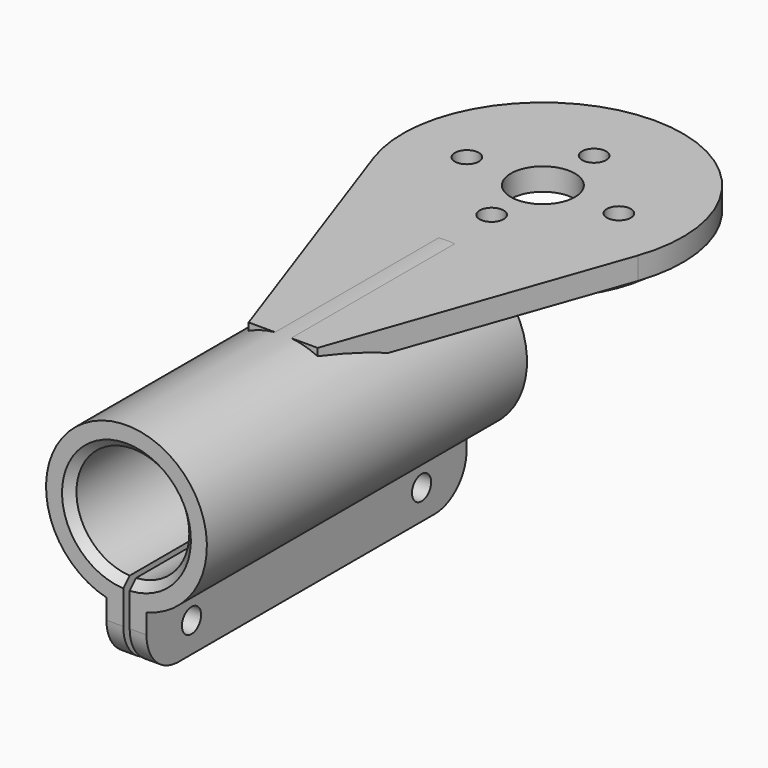
from build123d import *

# Parameters (mm, degrees)
F0_R      = 10.05
F0_R_2    = 7.05
F1_DEPTH  = 50
F3_R      = 17.5
F4_DEPTH  = 2.8
F5_W      = 5
F5_H      = 10
F6_DEPTH  = 50
F7_W      = 0.8
F7_H      = 12.637284
F8_DEPTH  = 82.538162
F10_DEPTH = 2.8
F11_R     = 1.5
F11_R_2   = 4
F12_DEPTH = 25
F13_R     = 14.5
F13_R_2   = 12.5
F14_DEPTH = 2
F15_R     = 1.5
F16_DEPTH = 20.001
F17_R     = 5
F18_SIZE  = 1


with BuildPart() as f1:
    # F0 (on Front) → F1 (new body)
    with BuildSketch(Plane.XZ):
        Circle(F0_R)
        Circle(F0_R_2, mode=Mode.SUBTRACT)
    extrude(amount=F1_DEPTH)

    # F3 (on offset) → F4 (join)
    with BuildSketch(Plane.XY.offset(10)):
        with Locations((0, 15.037162)):
            Circle(F3_R)
    extrude(amount=-F4_DEPTH)

    # F5 (on face) → F6 (join, through all)
    with BuildSketch(Plane.XZ.offset(50)):
        with Locations((0, -12.213485)):
            Rectangle(F5_W, F5_H)
    extrude(amount=-F6_DEPTH)

    # F7 (on face) → F8 (cut, through all)
    with BuildSketch(Plane.XZ.offset(50)):
        with Locations((0, -12.604385)):
            Rectangle(F7_W, F7_H)
    extrude(amount=-F8_DEPTH, mode=Mode.SUBTRACT)

    # F9 (on face) → F10 (join)
    with BuildSketch(Plane.XY.offset(10)):
        Polygon((4.304297, -25.528217), (16.511778, 9.239647), (-16.511778, 9.239647), (-4.315564, -25.528217), align=None)
    extrude(amount=-F10_DEPTH)

    # F11 (on face) → F12 (cut)
    with BuildSketch(Plane.XY.offset(10)):
        with Locations((0, 23.037162)):
            Circle(F11_R)
        with Locations((-9.5, 15.037162)):
            Circle(F11_R)
        with Locations((0, 7.037162)):
            Circle(F11_R)
        with Locations((9.5, 15.037162)):
            Circle(F11_R)
        with Locations((0, 15.037162)):
            Circle(F11_R_2)
    extrude(amount=-F12_DEPTH, mode=Mode.SUBTRACT)

    # F13 (on face) → F14 (join)
    with BuildSketch(Plane(origin=(0, 0, 7.2), x_dir=(1, 0, 0), z_dir=(0, 0, -1))):
        with Locations((0, -15.037162)):
            Circle(F13_R)
        with Locations((0, -15.037162)):
            Circle(F13_R_2, mode=Mode.SUBTRACT)
    extrude(amount=F14_DEPTH)

    # F15 (on face) → F16 (cut, through all)
    with BuildSketch(Plane.YZ.offset(2.5)):
        with Locations((-7.034952, -13.473787)):
            Circle(F15_R)
        with Locations((-42.965048, -13.473787)):
            Circle(F15_R)
    extrude(amount=-F16_DEPTH, mode=Mode.SUBTRACT)

    # F17
    f17_edges = [f1.edges().sort_by_distance(p)[0] for p in [
        (1.45, -50, -17.213485),
        (-1.45, -50, -17.213485),
        (1.45, 0, -17.213485),
        (-1.45, 0, -17.213485),
    ]]
    fillet(f17_edges, radius=F17_R)

    # F18
    f18_edges = [f1.edges().sort_by_distance(p)[0] for p in [
        (-4.841616, -50, 5.124573),
    ]]
    chamfer(f18_edges, length=F18_SIZE)


solid = f1.part
